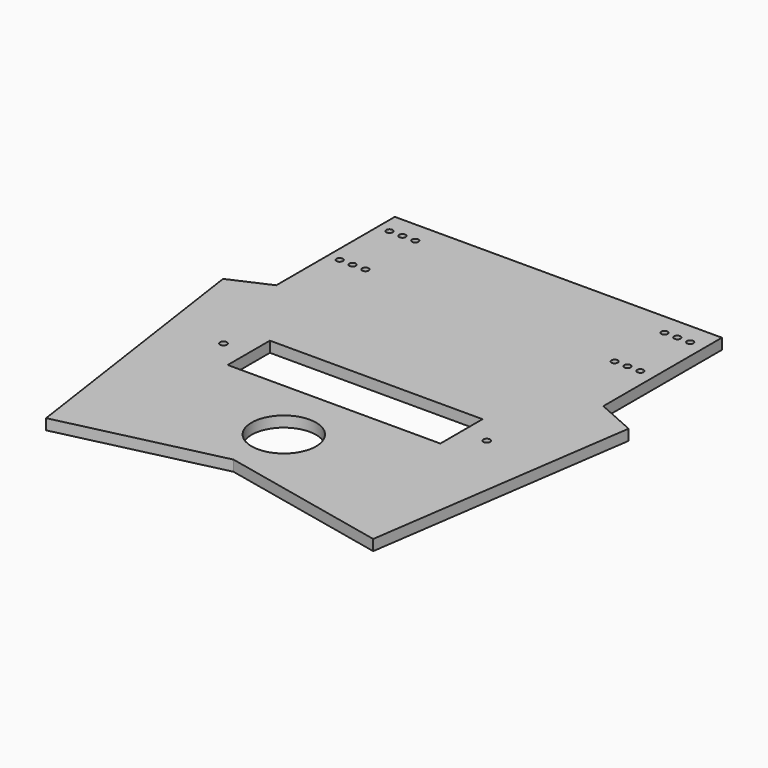
from build123d import *

# Parameters (mm, degrees)
F0_R     = 15
F0_R_2   = 1.5
F0_R_3   = 1.6
F1_DEPTH = 5


with BuildPart() as f1:
    # F0 (on Top) → F1 (new body)
    with BuildSketch(Plane.XY):
        Polygon((-403.716848, 348.878663), (-403.716848, 482.828194), (-421.982281, 474.681172), align=None)
        Polygon((-233.164922, 474.681172), (-251.430355, 482.828194), (-251.430355, 348.878663), align=None)
        Polygon((-251.430355, 551.828194), (-403.716848, 551.828194), (-403.716848, 482.828194), (-403.716848, 348.878663), (-330.124407, 365.963251), (-251.430355, 348.878663), (-251.430355, 482.828194), align=None)
        with Locations((-328.189336, 392.828194)):
            Circle(F0_R, mode=Mode.SUBTRACT)
        Polygon((-378.30206, 422.797888), (-394.089108, 435.076696), (-378.30206, 447.355504), (-279.30206, 447.355504), (-263.515012, 435.076696), (-279.30206, 422.797888), align=None, mode=Mode.SUBTRACT)
        with Locations((-398.189336, 512.828194)):
            Circle(F0_R_2, mode=Mode.SUBTRACT)
        with Locations((-392.189336, 512.828194)):
            Circle(F0_R_2, mode=Mode.SUBTRACT)
        with Locations((-386.189336, 512.828194)):
            Circle(F0_R_2, mode=Mode.SUBTRACT)
        with Locations((-398.189336, 541.828194)):
            Circle(F0_R_2, mode=Mode.SUBTRACT)
        with Locations((-392.189336, 541.828194)):
            Circle(F0_R_2, mode=Mode.SUBTRACT)
        with Locations((-386.189336, 541.828194)):
            Circle(F0_R_2, mode=Mode.SUBTRACT)
        with Locations((-270.189336, 512.828194)):
            Circle(F0_R_2, mode=Mode.SUBTRACT)
        with Locations((-264.189336, 512.828194)):
            Circle(F0_R_2, mode=Mode.SUBTRACT)
        with Locations((-258.189336, 512.828194)):
            Circle(F0_R_2, mode=Mode.SUBTRACT)
        with Locations((-270.189336, 541.828194)):
            Circle(F0_R_2, mode=Mode.SUBTRACT)
        with Locations((-264.189336, 541.828194)):
            Circle(F0_R_2, mode=Mode.SUBTRACT)
        with Locations((-258.189336, 541.828194)):
            Circle(F0_R_2, mode=Mode.SUBTRACT)
        Polygon((-378.30206, 447.355504), (-394.089108, 435.076696), (-378.30206, 422.797888), align=None)
        with Locations((-390.089108, 435.076696)):
            Circle(F0_R_3, mode=Mode.SUBTRACT)
        Polygon((-263.515012, 435.076696), (-279.30206, 447.355504), (-279.30206, 422.797888), align=None)
        with Locations((-267.515012, 435.076696)):
            Circle(F0_R_3, mode=Mode.SUBTRACT)
    extrude(amount=F1_DEPTH)


solid = f1.part
